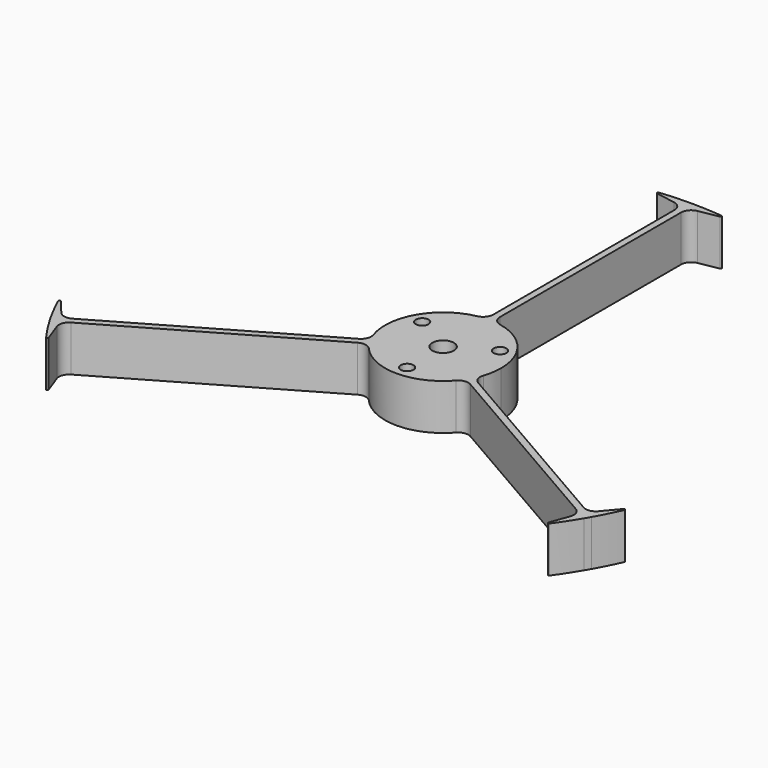
from build123d import *

# Parameters (mm, degrees)
F0_R     = 1.5875
F0_R_2   = 2.677996
F1_DEPTH = 11.43
F2_R     = 0.254
F3_R     = 2.54


with BuildPart() as f1:
    # F0 (on Top) → F1 (new body)
    with BuildSketch(Plane.XY):
        with BuildLine():
            ThreePointArc((14.5, 0), (10.540867, 9.956913), (0.8255, 14.476483))
            ThreePointArc((0.8255, 14.476483), (0, 14.5), (-0.8255, 14.476483))
            ThreePointArc((-0.8255, 14.476483), (-12.557368, 7.25), (-12.949752, -6.523337))
            ThreePointArc((-12.949752, -6.523337), (-12.557368, -7.25), (-12.124252, -7.953145))
            ThreePointArc((-12.124252, -7.953145), (0, -14.5), (12.124252, -7.953145))
            ThreePointArc((12.124252, -7.953145), (12.557368, -7.25), (12.949752, -6.523337))
            ThreePointArc((12.949752, -6.523337), (14.107115, -3.352507), (14.5, 0))
        make_face()
        with Locations((0, -11.226573)):
            Circle(F0_R, mode=Mode.SUBTRACT)
        with Locations((-9.722497, 5.613286)):
            Circle(F0_R, mode=Mode.SUBTRACT)
        Circle(F0_R_2, mode=Mode.SUBTRACT)
        with Locations((9.722497, 5.613286)):
            Circle(F0_R, mode=Mode.SUBTRACT)
        with BuildLine():
            Line((0.8255, 75.331596), (0.8255, 77.465602))
            ThreePointArc((0.8255, 77.465602), (0, 77.47), (-0.8255, 77.465602))
            Line((-0.8255, 77.465602), (-0.8255, 75.331596))
            Line((-0.8255, 75.331596), (-0.8255, 14.476483))
            ThreePointArc((-0.8255, 14.476483), (0, 14.5), (0.8255, 14.476483))
            Line((0.8255, 14.476483), (0.8255, 75.331596))
        make_face()
        with BuildLine():
            ThreePointArc((-12.124252, -7.953145), (-12.557368, -7.25), (-12.949752, -6.523337))
            Line((-12.949752, -6.523337), (-65.651826, -36.950894))
            Line((-65.651826, -36.950894), (-67.499929, -38.017897))
            ThreePointArc((-67.499929, -38.017897), (-67.090988, -38.735), (-66.674429, -39.447705))
            Line((-66.674429, -39.447705), (-64.826326, -38.380702))
            Line((-64.826326, -38.380702), (-12.124252, -7.953145))
        make_face()
        with BuildLine():
            ThreePointArc((66.674429, -39.447705), (67.090988, -38.735), (67.499929, -38.017897))
            Line((67.499929, -38.017897), (65.651826, -36.950894))
            Line((65.651826, -36.950894), (12.949752, -6.523337))
            ThreePointArc((12.949752, -6.523337), (12.557368, -7.25), (12.124252, -7.953145))
            Line((12.124252, -7.953145), (64.826326, -38.380702))
            Line((64.826326, -38.380702), (66.674429, -39.447705))
        make_face()
        with BuildLine():
            Line((-0.8255, 75.331596), (-0.8255, 77.465602))
            ThreePointArc((-0.8255, 77.465602), (-5.211335, 77.29452), (-9.580441, 76.875328))
            Line((-9.580441, 76.875328), (-0.8255, 75.331596))
        make_face()
        with BuildLine():
            Line((0.8255, 75.331596), (9.580441, 76.875328))
            ThreePointArc((9.580441, 76.875328), (5.211335, 77.29452), (0.8255, 77.465602))
            Line((0.8255, 77.465602), (0.8255, 75.331596))
        make_face()
        with BuildLine():
            ThreePointArc((61.785766, -46.734569), (64.333351, -43.160408), (66.674429, -39.447705))
            Line((66.674429, -39.447705), (64.826326, -38.380702))
            Line((64.826326, -38.380702), (61.785766, -46.734569))
        make_face()
        with BuildLine():
            ThreePointArc((67.499929, -38.017897), (69.544686, -34.134112), (71.366207, -30.140759))
            Line((71.366207, -30.140759), (65.651826, -36.950894))
            Line((65.651826, -36.950894), (67.499929, -38.017897))
        make_face()
        with BuildLine():
            ThreePointArc((-66.674429, -39.447705), (-64.333351, -43.160408), (-61.785766, -46.734569))
            Line((-61.785766, -46.734569), (-64.826326, -38.380702))
            Line((-64.826326, -38.380702), (-66.674429, -39.447705))
        make_face()
        with BuildLine():
            Line((-65.651826, -36.950894), (-71.366207, -30.140759))
            ThreePointArc((-71.366207, -30.140759), (-69.544686, -34.134112), (-67.499929, -38.017897))
            Line((-67.499929, -38.017897), (-65.651826, -36.950894))
        make_face()
    extrude(amount=F1_DEPTH)

    # F2
    f2_edges = [f1.edges().sort_by_distance(p)[0] for p in [
        (71.366207, -30.140759, 5.715),
        (61.785766, -46.734569, 5.715),
        (-71.366207, -30.140759, 5.715),
        (-61.785766, -46.734569, 5.715),
        (-9.580441, 76.875328, 5.715),
        (9.580441, 76.875328, 5.715),
    ]]
    fillet(f2_edges, radius=F2_R)

    # F3
    f3_edges = [f1.edges().sort_by_distance(p)[0] for p in [
        (-12.124252, -7.953145, 5.715),
        (-12.949752, -6.523337, 5.715),
        (-0.8255, 14.476483, 5.715),
        (0.8255, 14.476483, 5.715),
        (12.949752, -6.523337, 5.715),
        (12.124252, -7.953145, 5.715),
        (-64.826326, -38.380702, 5.715),
        (-65.651826, -36.950894, 5.715),
        (-0.8255, 75.331596, 5.715),
        (64.826326, -38.380702, 5.715),
        (65.651826, -36.950894, 5.715),
        (0.8255, 75.331596, 5.715),
    ]]
    fillet(f3_edges, radius=F3_R)


solid = f1.part
